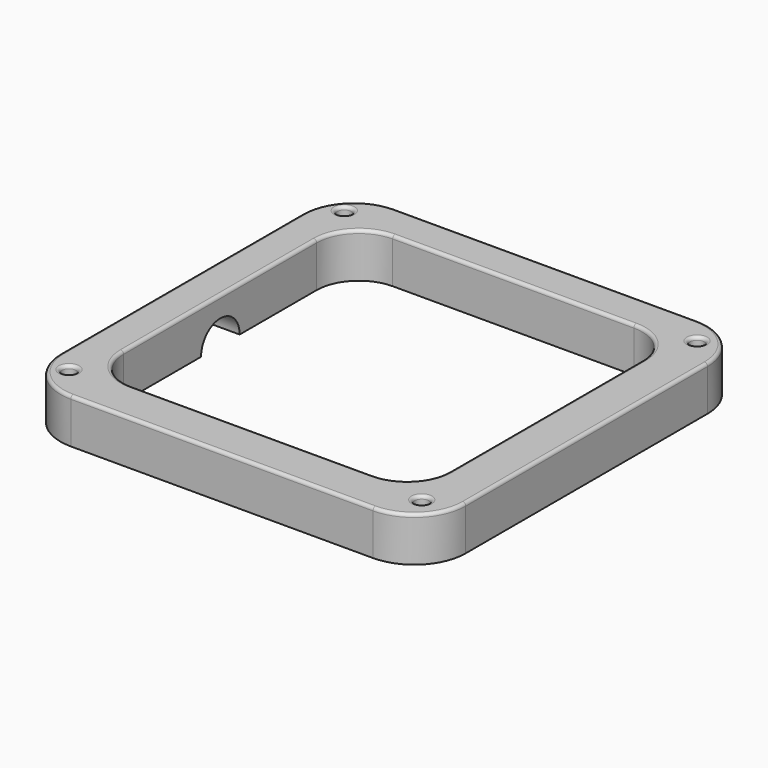
from build123d import *

# Parameters (mm, degrees)
SKETCH_R     = 1.59803
PAD_DEPTH    = 10
SKETCH001_R  = 5.399803
POCKET_DEPTH = 10
FILLET_R     = 0.7


with BuildPart() as part:
    # Sketch → Pad (new body)
    with BuildSketch(Plane.XY):
        with BuildLine():
            Line((-33.060326, 44.675403), (34.606833, 44.675403))
            ThreePointArc((46.13759, 33.144646), (42.76031, 41.298123), (34.606833, 44.675403))
            Line((46.13759, 33.144646), (46.13759, -34.522513))
            ThreePointArc((34.606833, -46.05327), (42.76031, -42.675989), (46.13759, -34.522513))
            Line((34.606833, -46.05327), (-33.060326, -46.05327))
            ThreePointArc((-44.591083, -34.522513), (-41.213802, -42.675989), (-33.060326, -46.05327))
            Line((-44.591083, -34.522513), (-44.591083, 33.144646))
            ThreePointArc((-33.060326, 44.675403), (-41.213802, 41.298123), (-44.591083, 33.144646))
        make_face()
        with Locations((-39.485482, 38.519965)):
            Circle(SKETCH_R, mode=Mode.SUBTRACT)
        with Locations((39.485482, 38.519965)):
            Circle(SKETCH_R, mode=Mode.SUBTRACT)
        with Locations((39.485482, -38.519965)):
            Circle(SKETCH_R, mode=Mode.SUBTRACT)
        with Locations((-39.485482, -38.519965)):
            Circle(SKETCH_R, mode=Mode.SUBTRACT)
        with BuildLine():
            Line((-27, 36.458412), (27, 36.458412))
            ThreePointArc((36.458412, 27), (33.688107, 33.688107), (27, 36.458412))
            Line((36.458412, 27), (36.458412, -27))
            ThreePointArc((27, -36.458412), (33.688107, -33.688107), (36.458412, -27))
            Line((27, -36.458412), (-27, -36.458412))
            ThreePointArc((-36.458412, -27), (-33.688107, -33.688107), (-27, -36.458412))
            Line((-36.458412, -27), (-36.458412, 27))
            ThreePointArc((-27, 36.458412), (-33.688107, 33.688107), (-36.458412, 27))
        make_face(mode=Mode.SUBTRACT)
    extrude(amount=PAD_DEPTH)

    # Sketch001 → Pocket (cut)
    with BuildSketch(Plane(origin=(-44.591083, 0, 0), x_dir=(0, -1, 0), z_dir=(-1, 0, 0))):
        with Locations((-0.059414, 0.010164)):
            Circle(SKETCH001_R)
    extrude(amount=-POCKET_DEPTH, mode=Mode.SUBTRACT)

    # Fillet
    fillet_edges = [part.edges().sort_by_distance(p)[0] for p in [
        (-44.591083, -0.688933, 10),
        (-41.213802, 41.298123, 10),
        (0.773254, 44.675403, 10),
        (42.76031, 41.298123, 10),
        (46.13759, -0.688933, 10),
        (42.76031, -42.675989, 10),
        (0.773254, -46.05327, 10),
        (-41.213802, -42.675989, 10),
        (-33.688107, -33.688107, 10),
        (0, -36.458412, 10),
        (33.688107, -33.688107, 10),
        (36.458412, 0, 10),
        (33.688107, 33.688107, 10),
        (0, 36.458412, 10),
        (-33.688107, 33.688107, 10),
        (-36.458412, 0, 10),
        (-41.083512, -38.519965, 10),
        (37.887452, -38.519965, 10),
        (37.887452, 38.519965, 10),
        (-41.083512, 38.519965, 10),
    ]]
    fillet(fillet_edges, radius=FILLET_R)


solid = part.part
